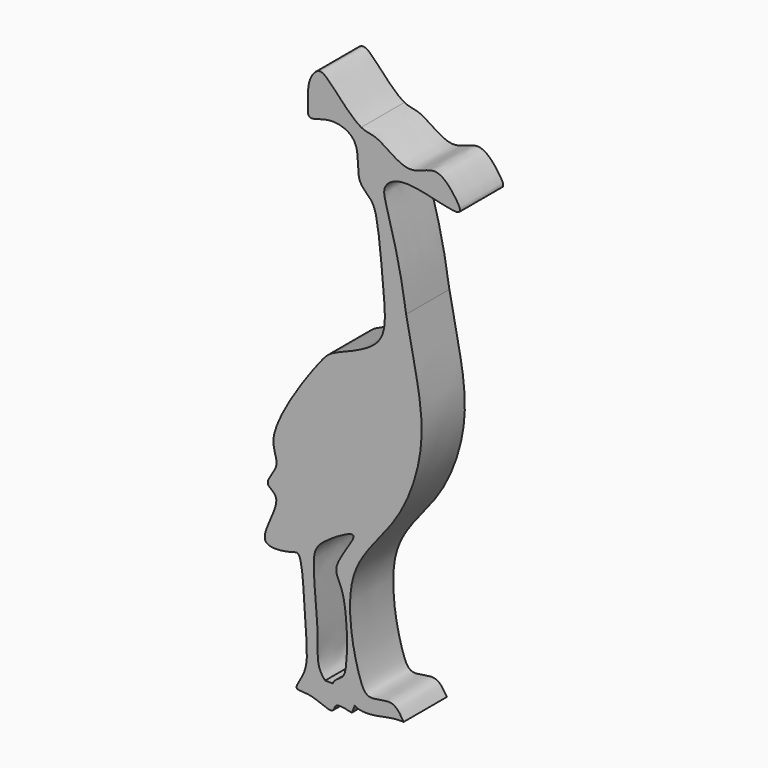
from build123d import *

# Parameters (mm, degrees)
F1_DEPTH = 7.874


with BuildPart() as f1:
    # F0 (on Front) → F1 (new body)
    with BuildSketch(Plane.XZ):
        with BuildLine():
            add(Edge.make_bspline(
                [(-30.5471904576, -24.3489835411), (-30.2232373434, -24.7528892759), (-28.1259496996, -24.9736531826), (-25.0844659588, -24.1387972179), (-23.9118395896, -24.1630434304), (-23.4335102141, -24.1729337722)],
                knots=[0.9559721386, 0.9559721386, 0.9559721386, 0.9559721386, 0.9704702401, 0.9879544312, 1, 1, 1, 1], degree=3))
            add(Edge.make_bspline(
                [(-23.4335102141, -24.1729337722), (-23.9298872025, -23.3497499878), (-24.9659874713, -21.6314976106), (-28.6870115227, -23.259264132), (-30.2554752831, -20.1386693033), (-32.9335035666, -7.0006378796), (-23.9094855682, 0.5455535592), (-19.9618950558, 12.2832714795), (-21.6891468298, 21.4386672657), (-22.6319195756, 26.0936582619), (-23.0686180294, 28.249880299)],
                knots=[0, 0, 0, 0, 0.0767565128, 0.1602158146, 0.2387436703, 0.4056622803, 0.5660734183, 0.730550639, 0.8751893075, 1, 1, 1, 1], degree=3))
            add(Edge.make_bspline(
                [(-23.0686180294, 28.249880299), (-23.3928177119, 30.3239617898), (-24.0494711372, 34.524930479), (-25.958136809, 41.2172061643), (-26.6028112458, 43.7748486456), (-23.2760899944, 46.1171595151), (-14.1007310805, 42.594811203), (-16.0188934431, 45.9060862182), (-18.775471085, 49.0534030455), (-22.7046934264, 45.7720439716), (-27.1923035768, 49.9636248125), (-28.7869517053, 49.6923469682), (-29.6235382557, 50.1315481961)],
                knots=[0, 0, 0, 0, 0.0245643158, 0.0497540342, 0.063919257, 0.0815655967, 0.1082935895, 0.121287083, 0.1397764593, 0.158620298, 0.1804099363, 0.1954998733, 0.1954998733, 0.1954998733, 0.1954998733], degree=3))
            Line((-29.6235382557, 50.1315481961), (-30.5799096823, 47.9147322476))
            add(Edge.make_bspline(
                [(-30.5799096823, 47.9147322476), (-29.8733982293, 46.6102939873), (-30.5775332112, 42.9872939831), (-27.9242363382, 41.4714099489), (-27.0617769258, 38.2441601069), (-26.3228536869, 29.5565938297), (-25.7319740589, 22.6462009627), (-33.7515600266, 20.1001626177), (-35.5594475171, 18.4375754714), (-44.1989436773, 6.2406368862), (-41.0159723877, 2.8916706199), (-44.3008803759, -0.2468736377), (-40.4484640236, -1.1927349871), (-45.9926050417, -8.8473652918), (-39.744040984, -7.793208808), (-38.2186406896, -7.034967958), (-37.8805006041, -15.6498325177), (-37.3107774086, -20.9327711741), (-38.1610174152, -23.1962327987), (-39.6318698024, -25.3351226006), (-36.9360454757, -24.7978069798), (-33.4535435916, -26.8747916458), (-33.6119734742, -24.6188705475), (-31.105103759, -25.4930907598), (-30.9812594205, -25.4341550171)],
                knots=[0.3118743563, 0.3118743563, 0.3118743563, 0.3118743563, 0.3326038037, 0.3477784786, 0.3646258979, 0.393259075, 0.4172597362, 0.4423263302, 0.4594492273, 0.4947411187, 0.5127869531, 0.5291380096, 0.5427559514, 0.5663242504, 0.5849517222, 0.5949780986, 0.621375725, 0.644575897, 0.6594248026, 0.6717421559, 0.6852242175, 0.7028101228, 0.7127904585, 0.7269399519, 0.7269399519, 0.7269399519, 0.7269399519], degree=3))
            Line((-30.9812594205, -25.4341550171), (-30.9738016792, -25.4155106798))
            add(Edge.make_bspline(
                [(-30.9738016792, -25.4155106798), (-31.0385074957, -25.228064463), (-33.6508624525, -23.9315035848), (-34.8878763616, -22.591734305)],
                knots=[0.7278599825, 0.7278599825, 0.7278599825, 0.7278599825, 0.7479983876, 0.7479983876, 0.7479983876, 0.7479983876], degree=3))
            add(Edge.make_bspline(
                [(-34.8878763616, -22.591734305), (-36.2562340016, -21.109710929), (-35.5185842866, -17.510246042), (-37.0687945298, -7.2694505098), (-35.5976774052, -4.8687548453), (-28.4114579701, -0.6653309787), (-34.4025171453, -7.7647681898), (-31.631983195, -9.7565055637), (-31.4799813704, -20.7209594437), (-32.6094779747, -21.4815632136), (-33.840726851, -22.3430846759), (-33.6941890419, -22.591734305)],
                knots=[0.7479983876, 0.7479983876, 0.7479983876, 0.7479983876, 0.7702750494, 0.8002391531, 0.8175304189, 0.8381018608, 0.8598336042, 0.877071847, 0.9075218678, 0.919161478, 0.9300477539, 0.9300477539, 0.9300477539, 0.9300477539], degree=3))
            add(Edge.make_bspline(
                [(-33.6941890419, -22.591734305), (-33.4815410404, -22.952561637), (-30.5698938841, -22.9651465049), (-30.7734687312, -24.0668590966), (-30.5471904576, -24.3489835411)],
                knots=[0.9300477539, 0.9300477539, 0.9300477539, 0.9300477539, 0.9458453479, 0.9559721386, 0.9559721386, 0.9559721386, 0.9559721386], degree=3))
        make_face()
        with BuildLine():
            Line((-30.9738016792, -25.4155106798), (-30.5471904576, -24.3489835411))
            add(Edge.make_bspline(
                [(-33.6941890419, -22.591734305), (-33.4815410404, -22.952561637), (-30.5698938841, -22.9651465049), (-30.7734687312, -24.0668590966), (-30.5471904576, -24.3489835411)],
                knots=[0.9300477539, 0.9300477539, 0.9300477539, 0.9300477539, 0.9458453479, 0.9559721386, 0.9559721386, 0.9559721386, 0.9559721386], degree=3))
            Line((-33.6941890419, -22.591734305), (-34.8878763616, -22.591734305))
            add(Edge.make_bspline(
                [(-30.9738016792, -25.4155106798), (-31.0385074957, -25.228064463), (-33.6508624525, -23.9315035848), (-34.8878763616, -22.591734305)],
                knots=[0.7278599825, 0.7278599825, 0.7278599825, 0.7278599825, 0.7479983876, 0.7479983876, 0.7479983876, 0.7479983876], degree=3))
        make_face()
        with BuildLine():
            Line((-30.5799096823, 47.9147322476), (-29.6235382557, 50.1315481961))
            add(Edge.make_bspline(
                [(-29.6235382557, 50.1315481961), (-30.8984923708, 50.8008888788), (-33.6886317491, 53.9919710329), (-35.813628524, 56.0238325825), (-37.5030581719, 53.5400408338), (-37.3075241445, 51.0565112556), (-37.6164169035, 48.2243892673), (-34.2341969696, 50.108311107), (-31.2403344812, 49.1340803164), (-30.5799096823, 47.9147322476)],
                knots=[0.1954998733, 0.1954998733, 0.1954998733, 0.1954998733, 0.218496869, 0.2331872253, 0.2472894183, 0.2633478831, 0.2763490207, 0.2924971174, 0.3118743563, 0.3118743563, 0.3118743563, 0.3118743563], degree=3))
        make_face()
        with BuildLine():
            add(Edge.make_bspline(
                [(-30.9812594205, -25.4341550171), (-30.9732067948, -25.4303228882), (-30.9708455698, -25.4240742302), (-30.9738016792, -25.4155106798)],
                knots=[0.7269399519, 0.7269399519, 0.7269399519, 0.7269399519, 0.7278599825, 0.7278599825, 0.7278599825, 0.7278599825], degree=3))
            Line((-30.9738016792, -25.4155106798), (-30.9812594205, -25.4341550171))
        make_face()
    extrude(amount=F1_DEPTH)


solid = f1.part
